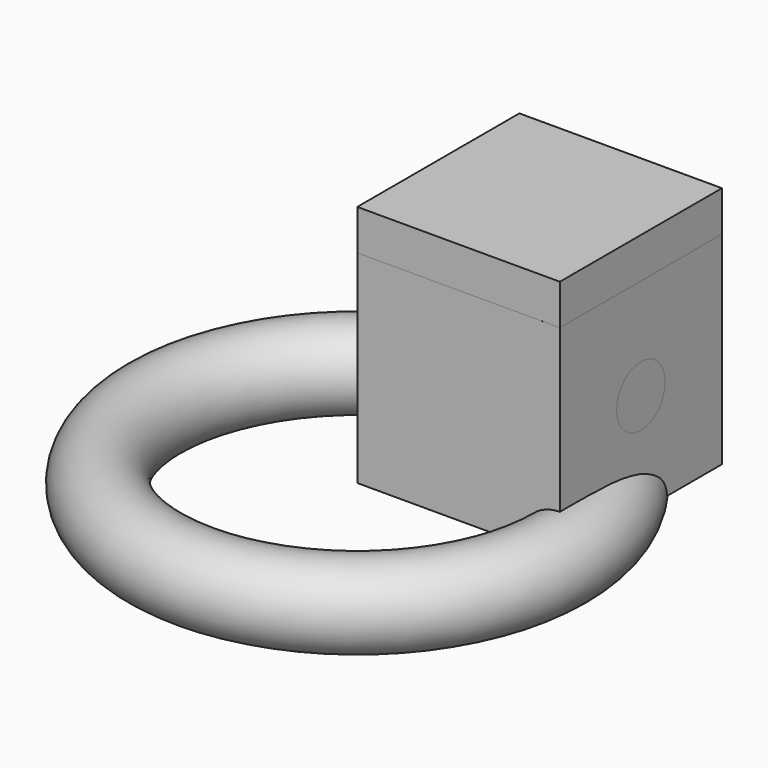
from build123d import *

# Parameters (mm, degrees)
TORUS_R      = 2
BOX_W        = 10
BOX_H        = 10
BOX_DEPTH    = 10
SKETCH_R     = 1.4927
POCKET_DEPTH = 5


with BuildPart() as torus:
    # Torus → Torus (revolve)
    with BuildSketch(Plane.XZ):
        with Locations((10, 0)):
            Circle(TORUS_R)
    revolve(axis=Axis((0, 0, 0), (0, 0, 1)))


with BuildPart() as cube:
    # Box → Box (new body)
    with BuildSketch(Plane.XY.offset(2)):
        with Locations((5, 5)):
            Rectangle(BOX_W, BOX_H)
    extrude(amount=BOX_DEPTH)


with BuildPart() as fusion:
    # Fusion base: copy of Cube
    add(cube.part)

    # Fusion: union Torus
    add(torus.part)


with BuildPart() as body:
    # Body base: copy of Cube
    add(cube.part)


with BuildPart() as body_1:
    # BaseFeature placement: moved
    add(body.part.moved(Location((0, 0, -2))))

    # Sketch (on Face2 of BaseFeature) → Pocket (cut)
    with BuildSketch(Plane.YZ.offset(10)):
        with Locations((5, 5)):
            Circle(SKETCH_R)
    extrude(amount=-POCKET_DEPTH, mode=Mode.SUBTRACT)


solid = Compound([fusion.part, body_1.part])
